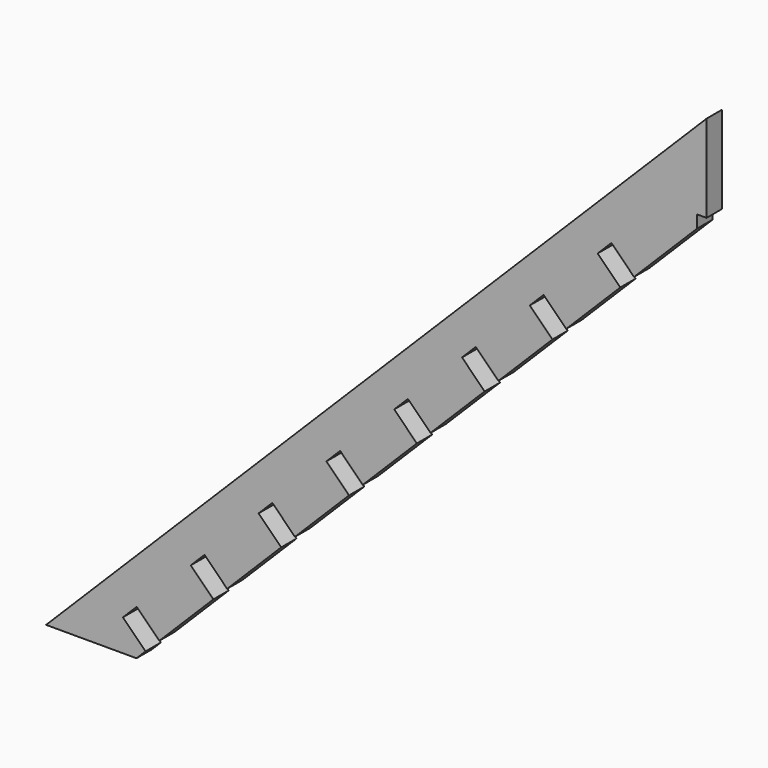
from build123d import *

# Parameters (mm, degrees)
F1_DEPTH = 3


with BuildPart() as f1:
    # F0 (on Front) → F1 (new body)
    with BuildSketch(Plane.XZ):
        Polygon((-75.109162, 1.415248), (-78.644696, 4.950781), (-76.495773, 7.099704), (-72.960239, 3.56417), (-64.50256, 12.021849), (-68.038094, 15.557383), (-65.887456, 17.705954), (-62.351922, 14.17042), (-53.894925, 22.627417), (-57.430459, 26.162951), (-55.280854, 28.312556), (-51.74532, 24.777022), (-43.288323, 33.234019), (-46.823857, 36.769553), (-44.674252, 38.919157), (-41.138718, 35.383623), (-32.681721, 43.84062), (-36.217255, 47.376154), (-34.067651, 49.525759), (-30.532117, 45.990225), (-22.07512, 54.447222), (-25.610654, 57.982756), (-23.461049, 60.132361), (-19.925515, 56.596827), (-11.468518, 65.053824), (-15.004052, 68.589358), (-12.854447, 70.738962), (-9.318913, 67.203429), (-0.861916, 75.660426), (-4.39745, 79.19596), (-2.247846, 81.345564), (1.287688, 77.81003), (10.635368, 87.15771), (11.155368, 87.67771), (11.155368, 88.67771), (11.155368, 89.62771), (12.635368, 89.62771), (12.635368, 103.301913), (12.155368, 102.821913), (-90.666545, 0), (-76.52441, 0), align=None)
    extrude(amount=F1_DEPTH)


solid = f1.part
